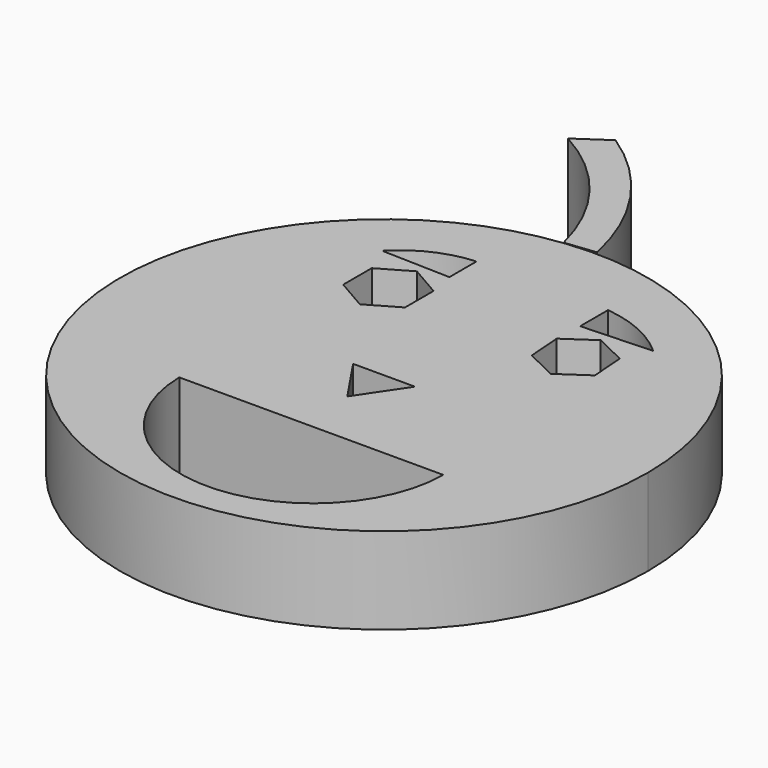
from build123d import *

# Parameters (mm, degrees)
F1_DEPTH  = 25.4
F3_DEPTH  = 25.4
F5_DEPTH  = 25.4
F7_DEPTH  = 25.4
F9_DEPTH  = 25.4
F11_DEPTH = 25.4


with BuildPart() as f1:
    # F0 (on Top) → F1 (new body)
    with BuildSketch(Plane.XY):
        with BuildLine():
            ThreePointArc((-34.638211, 69.161595), (-40.64383, -65.811937), (77.350707, 0))
            ThreePointArc((77.350707, 0), (63.02527, 44.843587), (25.355131, 73.077009))
            ThreePointArc((25.355131, 73.077009), (-5.037511, 77.186498), (-34.638211, 69.161595))
        make_face()
    extrude(amount=F1_DEPTH)

    # F2 (on face) → F3 (cut)
    with BuildSketch(Plane.XY.offset(25.4)):
        Polygon((7.471595, -2.352105), (-9.056711, 0), (0, -13.438989), align=None)
        Polygon((9.05671, 0), (-9.056711, 0), (7.471595, -2.352105), align=None)
    extrude(amount=-F3_DEPTH, mode=Mode.SUBTRACT)

    # F4 (on face) → F5 (cut)
    with BuildSketch(Plane.XY.offset(25.4)):
        with BuildLine():
            Line((-18.697726, 47.328614), (-18.697726, 57.261784))
            ThreePointArc((-18.697726, 57.261784), (-29.665699, 54.503678), (-38.856208, 47.912918))
            Line((-38.856208, 47.912918), (-18.697726, 47.328614))
        make_face()
        with BuildLine():
            Line((19.866332, 47.036462), (40.609121, 47.912918))
            ThreePointArc((40.609121, 47.912918), (30.975257, 54.223746), (19.866332, 57.261784))
            Line((19.866332, 57.261784), (19.866332, 47.036462))
        make_face()
    extrude(amount=-F5_DEPTH, mode=Mode.SUBTRACT)

    # F6 (on face) → F7 (cut)
    with BuildSketch(Plane.XY.offset(25.4)):
        Polygon((-17.236965, 29.245036), (-17.236965, 39.702823), (-26.293674, 44.931717), (-35.350384, 39.702823), (-35.350384, 29.245036), (-26.293674, 24.016142), align=None)
        Polygon((36.983062, 40.169268), (27.874667, 44.554793), (19.522494, 38.859455), (20.278715, 28.778591), (29.387109, 24.393066), (37.739283, 30.088404), align=None)
    extrude(amount=-F7_DEPTH, mode=Mode.SUBTRACT)

    # F8 (on face) → F9 (cut)
    with BuildSketch(Plane.XY.offset(25.4)):
        with BuildLine():
            Line((41.485578, -30.091651), (-35.934687, -30.091651))
            ThreePointArc((-35.934687, -30.091651), (2.775446, -68.251941), (41.485578, -30.091651))
        make_face()
    extrude(amount=-F9_DEPTH, mode=Mode.SUBTRACT)


with BuildPart() as f11:
    # F10 (on Top) → F11 (new body)
    with BuildSketch(Plane.XY):
        with BuildLine():
            ThreePointArc((-40.448051, 117.956847), (-20.384209, 100.819767), (-8.974507, 77.027835))
            Line((-8.974507, 77.027835), (0, 78.05106))
            ThreePointArc((0, 78.05106), (-11.142767, 104.183116), (-31.403929, 124.0962))
            Line((-31.403929, 124.0962), (-40.448051, 117.956847))
        make_face()
    extrude(amount=F11_DEPTH)


solid = Compound([f1.part, f11.part])
